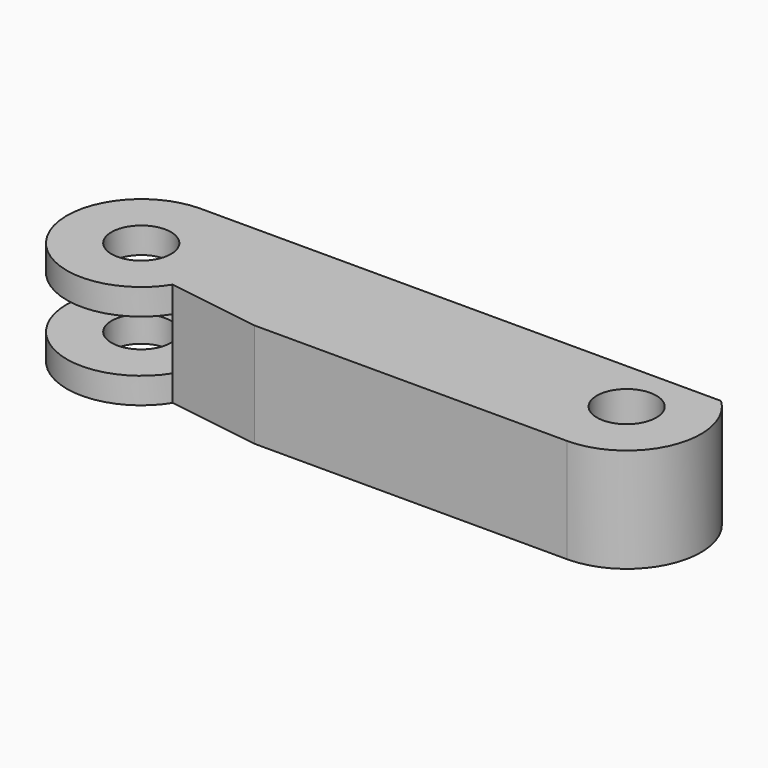
from build123d import *

# Parameters (mm, degrees)
F0_R     = 2
F1_DEPTH = 7
F3_DEPTH = 5.25
F4_DEPTH = 1.75
F5_R     = 2
F6_DEPTH = 1.75


with BuildPart() as f1:
    # F0 (on Top) → F1 (new body)
    with BuildSketch(Plane.XY):
        with BuildLine():
            Line((40.009908, 0), (5.040038, 0))
            ThreePointArc((5.040038, 0), (0.664349, -7.419369), (9.274601, -7.658661))
            Line((9.274601, -7.658661), (15.540038, -8.6))
            Line((15.540038, -8.6), (36.540038, -8.6))
            ThreePointArc((36.540038, -8.6), (41.176847, -5.470829), (40.009908, 0))
        make_face()
        with Locations((5.040038, -5)):
            Circle(F0_R, mode=Mode.SUBTRACT)
        with Locations((36.540038, -3.6)):
            Circle(F0_R, mode=Mode.SUBTRACT)
    extrude(amount=F1_DEPTH)

    # F2 (on face) → F3 (cut)
    with BuildSketch(Plane.XY.offset(7)):
        with BuildLine():
            Line((11.540038, 0), (5.040038, 0))
            ThreePointArc((5.040038, 0), (2.831279, -9.485687), (9.003158, -1.951446))
            Line((9.003158, -1.951446), (11.540038, 0))
        make_face()
    extrude(amount=-F3_DEPTH, mode=Mode.SUBTRACT)

    # F2 (on face) → F4 (join)
    with BuildSketch(Plane.XY.offset(7)):
        with BuildLine():
            Line((11.540038, 0), (5.040038, 0))
            ThreePointArc((5.040038, 0), (2.831279, -9.485687), (9.003158, -1.951446))
            Line((9.003158, -1.951446), (11.540038, 0))
        make_face()
    extrude(amount=-F4_DEPTH)

    # F5 (on face) → F6 (cut)
    with BuildSketch(Plane.XY.offset(7)):
        with Locations((5.040038, -5)):
            Circle(F5_R)
    extrude(amount=-F6_DEPTH, mode=Mode.SUBTRACT)


solid = f1.part
